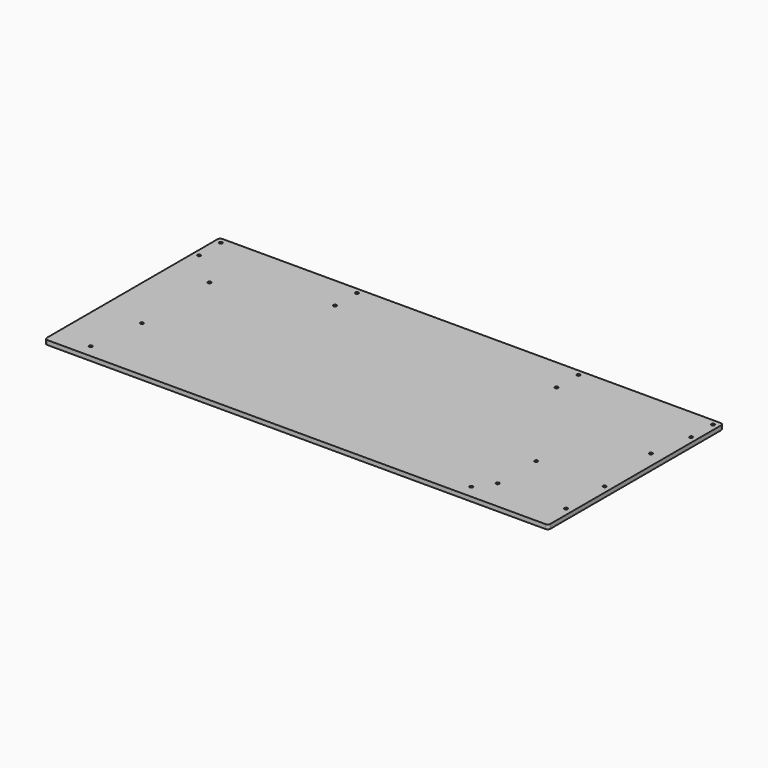
from build123d import *

# Parameters (mm, degrees)
SKETCH_R  = 1.1
PAD_DEPTH = 3


with BuildPart() as part:
    # Sketch → Pad (new body)
    with BuildSketch(Plane.XY):
        with BuildLine():
            Line((12, 10), (354.66, 10))
            ThreePointArc((354.66, 10), (356.074214, 10.585786), (356.66, 12))
            Line((356.66, 12), (356.66, 158.72))
            ThreePointArc((356.66, 158.72), (356.074214, 160.134214), (354.66, 160.72))
            Line((354.66, 160.72), (12, 160.72))
            ThreePointArc((12, 160.72), (10.585786, 160.134214), (10, 158.72))
            Line((10, 158.72), (10, 12))
            ThreePointArc((10, 12), (10.585786, 10.585786), (12, 10))
        make_face()
        with Locations((14, 137.97)):
            Circle(SKETCH_R, mode=Mode.SUBTRACT)
        with Locations((14, 156.72)):
            Circle(SKETCH_R, mode=Mode.SUBTRACT)
        with Locations((34.53, 19)):
            Circle(SKETCH_R, mode=Mode.SUBTRACT)
        with Locations((39.29, 57.1)):
            Circle(SKETCH_R, mode=Mode.SUBTRACT)
        with Locations((38.05, 116.78)):
            Circle(SKETCH_R, mode=Mode.SUBTRACT)
        with Locations((107.59, 156.72)):
            Circle(SKETCH_R, mode=Mode.SUBTRACT)
        with Locations((107.59, 137.97)):
            Circle(SKETCH_R, mode=Mode.SUBTRACT)
        with Locations((260.08, 156.72)):
            Circle(SKETCH_R, mode=Mode.SUBTRACT)
        with Locations((260.08, 137.97)):
            Circle(SKETCH_R, mode=Mode.SUBTRACT)
        with Locations((352.67, 156.72)):
            Circle(SKETCH_R, mode=Mode.SUBTRACT)
        with Locations((352.67, 137.97)):
            Circle(SKETCH_R, mode=Mode.SUBTRACT)
        with Locations((347.66, 109.49)):
            Circle(SKETCH_R, mode=Mode.SUBTRACT)
        with Locations((305.06, 64.15)):
            Circle(SKETCH_R, mode=Mode.SUBTRACT)
        with Locations((352.16, 64.15)):
            Circle(SKETCH_R, mode=Mode.SUBTRACT)
        with Locations((305.06, 31)):
            Circle(SKETCH_R, mode=Mode.SUBTRACT)
        with Locations((352.16, 31)):
            Circle(SKETCH_R, mode=Mode.SUBTRACT)
        with Locations((296.46, 19.03)):
            Circle(SKETCH_R, mode=Mode.SUBTRACT)
    extrude(amount=PAD_DEPTH)


solid = part.part
